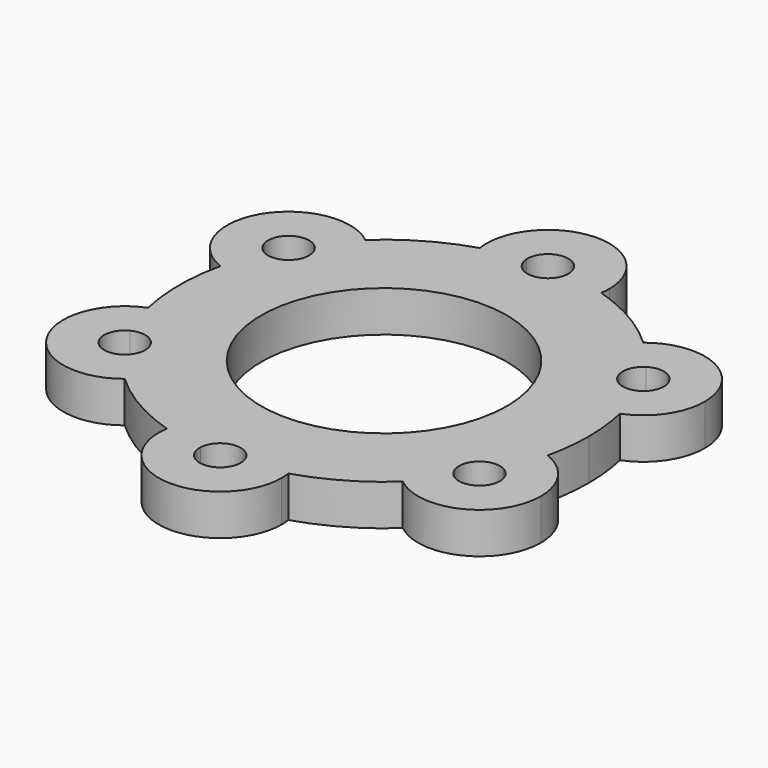
from build123d import *

# Parameters (mm, degrees)
F0_R     = 19.05
F1_DEPTH = 6.35


with BuildPart() as f1:
    # F0 (on Top) → F1 (new body)
    with BuildSketch(Plane.XY):
        with BuildLine():
            ThreePointArc((30.9675898336, -7.0050610202), (31.5537911923, -3.5243100589), (31.75, 0))
            ThreePointArc((31.75, 0), (31.5537911923, 3.5243100589), (30.9675898336, 7.0050610202))
            ThreePointArc((30.9675898336, 7.0050610202), (19.2474145991, 11.1125), (21.5503557154, 23.3161889798))
            ThreePointArc((21.5503557154, 23.3161889798), (15.875, 27.4963065702), (9.4172341182, 30.32125))
            ThreePointArc((9.4172341182, 30.32125), (0, 22.225), (-9.4172341182, 30.32125))
            ThreePointArc((-9.4172341182, 30.32125), (-15.875, 27.4963065702), (-21.5503557154, 23.3161889798))
            ThreePointArc((-21.5503557154, 23.3161889798), (-18.912577576, 20.0035859025), (-17.9713065702, 15.875))
            ThreePointArc((-17.9713065702, 15.875), (-22.1268721532, 8.0076752296), (-30.9675898336, 7.0050610202))
            ThreePointArc((-30.9675898336, 7.0050610202), (-31.75, 0), (-30.9675898336, -7.0050610202))
            ThreePointArc((-30.9675898336, -7.0050610202), (-22.1268721532, -8.0076752296), (-17.9713065702, -15.875))
            ThreePointArc((-17.9713065702, -15.875), (-18.912577576, -20.0035859025), (-21.5503557154, -23.3161889798))
            ThreePointArc((-21.5503557154, -23.3161889798), (-15.875, -27.4963065702), (-9.4172341182, -30.32125))
            ThreePointArc((-9.4172341182, -30.32125), (0, -22.225), (9.4172341182, -30.32125))
            ThreePointArc((9.4172341182, -30.32125), (15.875, -27.4963065702), (21.5503557154, -23.3161889798))
            ThreePointArc((21.5503557154, -23.3161889798), (19.2474145991, -11.1125), (30.9675898336, -7.0050610202))
        make_face()
        Circle(F0_R, mode=Mode.SUBTRACT)
        with BuildLine():
            ThreePointArc((21.5503557154, 23.3161889798), (19.2474145991, 11.1125), (30.9675898336, 7.0050610202))
            ThreePointArc((30.9675898336, 7.0050610202), (30.1080292697, 10.0781483168), (28.9443394205, 13.0494335321))
            ThreePointArc((28.9443394205, 13.0494335321), (24.7466759131, 14.2875), (25.7733106541, 18.5418164679))
            ThreePointArc((25.7733106541, 18.5418164679), (23.7819471003, 21.035244047), (21.5503557154, 23.3161889798))
        make_face()
        with BuildLine():
            ThreePointArc((28.9443394205, 13.0494335321), (30.1080292697, 10.0781483168), (30.9675898336, 7.0050610202))
            ThreePointArc((30.9675898336, 7.0050610202), (35.3636313405, 10.5055655831), (37.0213065702, 15.875))
            ThreePointArc((37.0213065702, 15.875), (31.6248924726, 24.4587289942), (21.5503557154, 23.3161889798))
            ThreePointArc((21.5503557154, 23.3161889798), (23.7819471003, 21.035244047), (25.7733106541, 18.5418164679))
            ThreePointArc((25.7733106541, 18.5418164679), (29.0145478169, 18.6634706412), (30.6713065702, 15.875))
            ThreePointArc((30.6713065702, 15.875), (30.2053773795, 14.2192342104), (28.9443394205, 13.0494335321))
        make_face()
        with BuildLine():
            ThreePointArc((37.0213065702, -15.875), (35.3636313405, -10.5055655831), (30.9675898336, -7.0050610202))
            ThreePointArc((30.9675898336, -7.0050610202), (30.1080292697, -10.0781483168), (28.9443394205, -13.0494335321))
            ThreePointArc((28.9443394205, -13.0494335321), (30.2053773795, -14.2192342104), (30.6713065702, -15.875))
            ThreePointArc((30.6713065702, -15.875), (29.0145478169, -18.6634706412), (25.7733106541, -18.5418164679))
            ThreePointArc((25.7733106541, -18.5418164679), (23.7819471003, -21.035244047), (21.5503557154, -23.3161889798))
            ThreePointArc((21.5503557154, -23.3161889798), (31.6248924726, -24.4587289942), (37.0213065702, -15.875))
        make_face()
        with BuildLine():
            ThreePointArc((28.9443394205, -13.0494335321), (30.1080292697, -10.0781483168), (30.9675898336, -7.0050610202))
            ThreePointArc((30.9675898336, -7.0050610202), (19.2474145991, -11.1125), (21.5503557154, -23.3161889798))
            ThreePointArc((21.5503557154, -23.3161889798), (23.7819471003, -21.035244047), (25.7733106541, -18.5418164679))
            ThreePointArc((25.7733106541, -18.5418164679), (24.7466759131, -14.2875), (28.9443394205, -13.0494335321))
        make_face()
        with BuildLine():
            ThreePointArc((-9.4172341182, 30.32125), (0, 22.225), (9.4172341182, 30.32125))
            ThreePointArc((9.4172341182, 30.32125), (6.3260821693, 31.1133923638), (3.1710287664, 31.59125))
            ThreePointArc((3.1710287664, 31.59125), (0, 28.575), (-3.1710287664, 31.59125))
            ThreePointArc((-3.1710287664, 31.59125), (-6.3260821693, 31.1133923638), (-9.4172341182, 30.32125))
        make_face()
        with BuildLine():
            ThreePointArc((3.1710287664, 31.59125), (6.3260821693, 31.1133923638), (9.4172341182, 30.32125))
            ThreePointArc((9.4172341182, 30.32125), (9.4980203194, 31.0335957762), (9.525, 31.75))
            ThreePointArc((9.525, 31.75), (-0.7164042238, 41.2480203194), (-9.4172341182, 30.32125))
            ThreePointArc((-9.4172341182, 30.32125), (-6.3260821693, 31.1133923638), (-3.1710287664, 31.59125))
            ThreePointArc((-3.1710287664, 31.59125), (-0.0793998319, 34.9240070363), (3.175, 31.75))
            ThreePointArc((3.175, 31.75), (3.1740070363, 31.6706001681), (3.1710287664, 31.59125))
        make_face()
        with BuildLine():
            ThreePointArc((9.525, -31.75), (9.4980203194, -31.0335957762), (9.4172341182, -30.32125))
            ThreePointArc((9.4172341182, -30.32125), (6.3260821693, -31.1133923638), (3.1710287664, -31.59125))
            ThreePointArc((3.1710287664, -31.59125), (3.1740070363, -31.6706001681), (3.175, -31.75))
            ThreePointArc((3.175, -31.75), (-0.0793998319, -34.9240070363), (-3.1710287664, -31.59125))
            ThreePointArc((-3.1710287664, -31.59125), (-6.3260821693, -31.1133923638), (-9.4172341182, -30.32125))
            ThreePointArc((-9.4172341182, -30.32125), (-0.7164042238, -41.2480203194), (9.525, -31.75))
        make_face()
        with BuildLine():
            ThreePointArc((3.1710287664, -31.59125), (6.3260821693, -31.1133923638), (9.4172341182, -30.32125))
            ThreePointArc((9.4172341182, -30.32125), (0, -22.225), (-9.4172341182, -30.32125))
            ThreePointArc((-9.4172341182, -30.32125), (-6.3260821693, -31.1133923638), (-3.1710287664, -31.59125))
            ThreePointArc((-3.1710287664, -31.59125), (0, -28.575), (3.1710287664, -31.59125))
        make_face()
        with BuildLine():
            ThreePointArc((-17.9713065702, 15.875), (-18.912577576, 20.0035859025), (-21.5503557154, 23.3161889798))
            ThreePointArc((-21.5503557154, 23.3161889798), (-23.7819471003, 21.035244047), (-25.7733106541, 18.5418164679))
            ThreePointArc((-25.7733106541, 18.5418164679), (-24.707835929, 17.3932412467), (-24.3213065702, 15.875))
            ThreePointArc((-24.3213065702, 15.875), (-25.8405407805, 13.1659291907), (-28.9443394205, 13.0494335321))
            ThreePointArc((-28.9443394205, 13.0494335321), (-30.1080292697, 10.0781483168), (-30.9675898336, 7.0050610202))
            ThreePointArc((-30.9675898336, 7.0050610202), (-22.1268721532, 8.0076752296), (-17.9713065702, 15.875))
        make_face()
        with BuildLine():
            ThreePointArc((-25.7733106541, 18.5418164679), (-23.7819471003, 21.035244047), (-21.5503557154, 23.3161889798))
            ThreePointArc((-21.5503557154, 23.3161889798), (-35.7451985412, 20.6375), (-30.9675898336, 7.0050610202))
            ThreePointArc((-30.9675898336, 7.0050610202), (-30.1080292697, 10.0781483168), (-28.9443394205, 13.0494335321))
            ThreePointArc((-28.9443394205, 13.0494335321), (-30.2459372272, 17.4625), (-25.7733106541, 18.5418164679))
        make_face()
        with BuildLine():
            ThreePointArc((-30.9675898336, -7.0050610202), (-35.7451985412, -20.6375), (-21.5503557154, -23.3161889798))
            ThreePointArc((-21.5503557154, -23.3161889798), (-23.7819471003, -21.035244047), (-25.7733106541, -18.5418164679))
            ThreePointArc((-25.7733106541, -18.5418164679), (-30.2459372272, -17.4625), (-28.9443394205, -13.0494335321))
            ThreePointArc((-28.9443394205, -13.0494335321), (-30.1080292697, -10.0781483168), (-30.9675898336, -7.0050610202))
        make_face()
        with BuildLine():
            ThreePointArc((-25.7733106541, -18.5418164679), (-23.7819471003, -21.035244047), (-21.5503557154, -23.3161889798))
            ThreePointArc((-21.5503557154, -23.3161889798), (-18.912577576, -20.0035859025), (-17.9713065702, -15.875))
            ThreePointArc((-17.9713065702, -15.875), (-22.1268721532, -8.0076752296), (-30.9675898336, -7.0050610202))
            ThreePointArc((-30.9675898336, -7.0050610202), (-30.1080292697, -10.0781483168), (-28.9443394205, -13.0494335321))
            ThreePointArc((-28.9443394205, -13.0494335321), (-25.8405407805, -13.1659291907), (-24.3213065702, -15.875))
            ThreePointArc((-24.3213065702, -15.875), (-24.707835929, -17.3932412467), (-25.7733106541, -18.5418164679))
        make_face()
    extrude(amount=F1_DEPTH)


solid = f1.part
